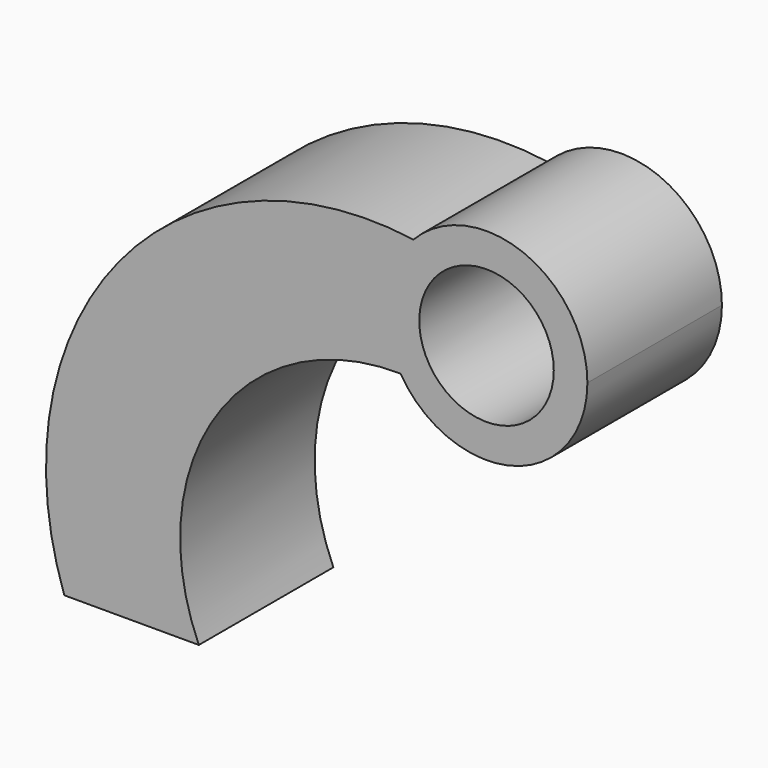
from build123d import *

# Parameters (mm, degrees)
F0_R     = 10
F1_DEPTH = 25


with BuildPart() as f1:
    # F0 (on Front) → F1 (new body)
    with BuildSketch(Plane.XZ):
        with BuildLine():
            ThreePointArc((-12.792136, -7.833343), (-14.916387, 1.581581), (-10.865039, 10.341708))
            ThreePointArc((-10.865039, 10.341708), (-54.658742, -6.783931), (-62.775411, -53.101266))
            Line((-62.775411, -53.101266), (-42.775411, -53.101266))
            ThreePointArc((-42.775411, -53.101266), (-40.200011, -22.243392), (-12.792136, -7.833343))
        make_face()
        with BuildLine():
            ThreePointArc((-12.792136, -7.833343), (4.069273, -14.437487), (15, 0))
            ThreePointArc((15, 0), (5.56886, 13.92795), (-10.865039, 10.341708))
            ThreePointArc((-10.865039, 10.341708), (-14.916387, 1.581581), (-12.792136, -7.833343))
        make_face()
        Circle(F0_R, mode=Mode.SUBTRACT)
    extrude(amount=F1_DEPTH)


solid = f1.part
